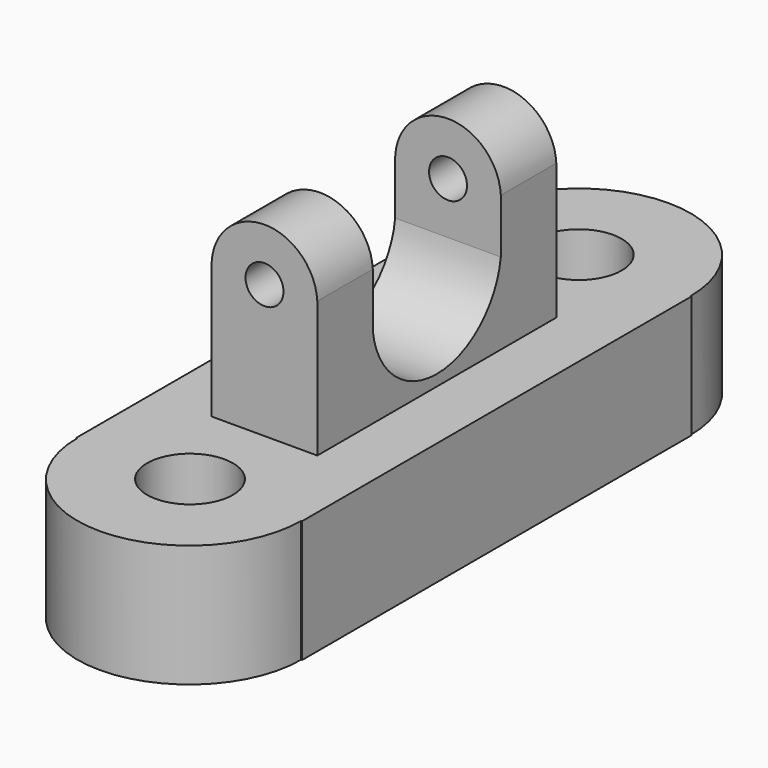
from build123d import *

# Parameters (mm, degrees)
F0_R     = 13.378709
F1_DEPTH = 38.1
F2_W     = 32.905034
F2_H     = 93.086616
F3_DEPTH = 63.5
F4_R     = 5.910106
F5_DEPTH = 157.258617
F6_W     = 49.855356
F6_H     = 31.583474
F7_DEPTH = 51.616201


with BuildPart() as f1:
    # F0 (on Top) → F1 (new body)
    with BuildSketch(Plane.XY):
        with BuildLine():
            Line((-34.876153, 75.838156), (-35.162684, 75.838156))
            Line((-35.162684, 75.838156), (-35.162684, -75.838156))
            Line((-35.162684, -75.838156), (-34.876156, -75.838156))
            ThreePointArc((-34.876156, -75.838156), (-3e-06, -110.714309), (34.87615, -75.838156))
            Line((34.87615, -75.838156), (35.162684, -75.838156))
            Line((35.162684, -75.838156), (35.162684, 75.838156))
            Line((35.162684, 75.838156), (34.876153, 75.838156))
            ThreePointArc((34.876153, 75.838156), (0, 110.714309), (-34.876153, 75.838156))
        make_face()
        with Locations((-2e-06, -75.551689)):
            Circle(F0_R, mode=Mode.SUBTRACT)
        with Locations((0, 75.838156)):
            Circle(F0_R, mode=Mode.SUBTRACT)
    extrude(amount=F1_DEPTH)

    # F2 (on face) → F3 (join)
    with BuildSketch(Plane.XY.offset(38.1)):
        Rectangle(F2_W, F2_H)
    extrude(amount=F3_DEPTH)

    # F4 (on face) → F5 (cut, through all)
    with BuildSketch(Plane.XZ.offset(46.543308)):
        with BuildLine():
            ThreePointArc((-16.452517, 80.430904), (0, 96.095652), (16.452517, 80.430904))
            Line((16.452517, 80.430904), (16.452517, 101.6))
            Line((16.452517, 101.6), (-16.452517, 101.6))
            Line((-16.452517, 101.6), (-16.452517, 80.430904))
        make_face()
        with Locations((0, 79.623327)):
            Circle(F4_R)
    extrude(amount=-F5_DEPTH, mode=Mode.SUBTRACT)

    # F6 (on face) → F7 (cut, through all)
    with BuildSketch(Plane.YZ.offset(16.452517)):
        with BuildLine():
            Line((24.927678, 80.430904), (-24.927678, 80.430904))
            Line((-24.927678, 80.430904), (-24.927678, 63.47666))
            ThreePointArc((-24.927678, 63.47666), (0, 41.538121), (24.927678, 63.47666))
            Line((24.927678, 63.47666), (24.927678, 80.430904))
        make_face()
        with Locations((0, 96.222641)):
            Rectangle(F6_W, F6_H)
    extrude(amount=-F7_DEPTH, mode=Mode.SUBTRACT)


solid = f1.part
